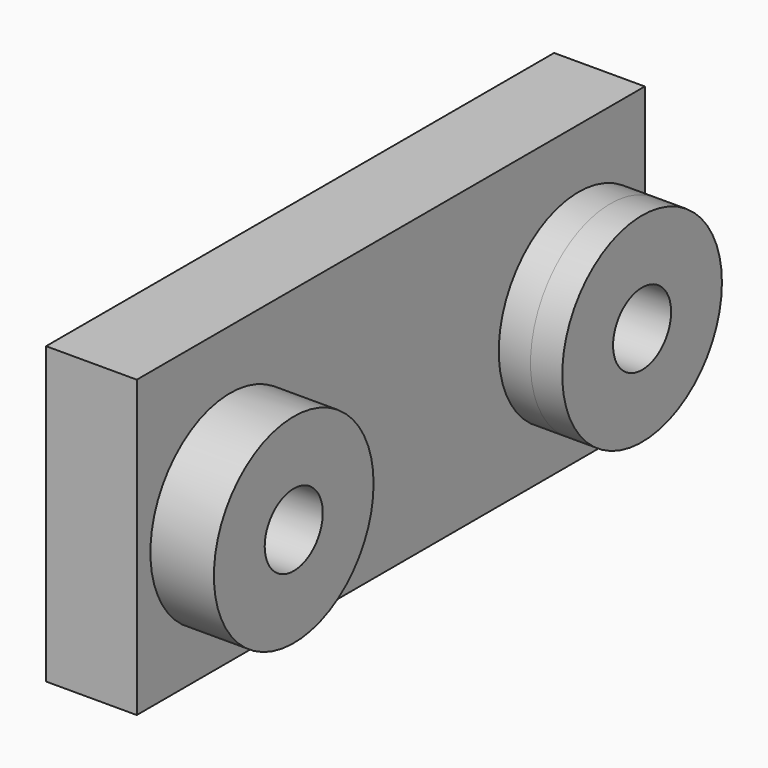
from build123d import *

# Parameters (mm, degrees)
F0_W     = 10
F0_H     = 32.547483
F1_DEPTH = 70
F2_R     = 11
F3_DEPTH = 3.5
F4_R     = 4
F5_DEPTH = 18.501


with BuildPart() as f1:
    # F0 (on Front) → F1 (new body)
    with BuildSketch(Plane.XZ):
        with Locations((-10, 33.353868)):
            Rectangle(F0_W, F0_H)
    extrude(amount=F1_DEPTH)


with BuildPart() as f3:
    # F2 (on Right) → F3 (new body, symmetric)
    with BuildSketch(Plane.YZ):
        with Locations((-11, 33.353868)):
            Circle(F2_R)
        with Locations((-59, 33.353868)):
            Circle(F2_R)
    extrude(amount=F3_DEPTH, both=True)


with BuildPart() as f5_tool:
    # F4 (on face) → F5 (new body, through all)
    with BuildSketch(Plane(origin=(-15, 0, 0), x_dir=(0, -1, 0), z_dir=(-1, 0, 0))):
        with Locations((11, 33.353868)):
            Circle(F4_R)
        with Locations((59, 33.353868)):
            Circle(F4_R)
    extrude(amount=-F5_DEPTH)


with BuildPart() as f1_1:
    add(f1.part)

    # F5: cut by f5_tool
    add(f5_tool.part, mode=Mode.SUBTRACT)


with BuildPart() as f3_1:
    add(f3.part)

    # F5: cut by f5_tool
    add(f5_tool.part, mode=Mode.SUBTRACT)


solid = Compound([f1_1.part, f3_1.part])
